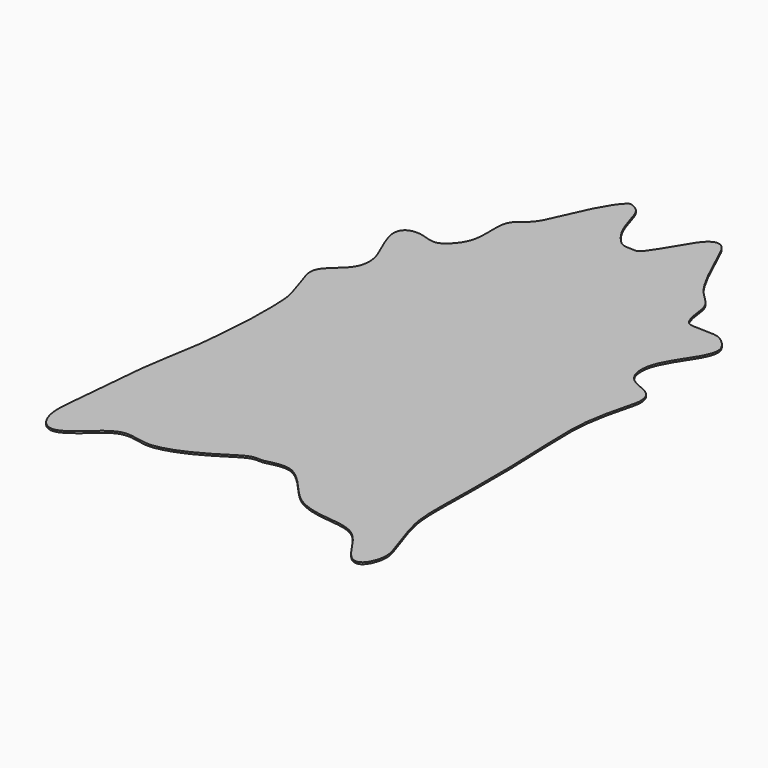
from build123d import *

# Parameters (mm, degrees)
EXTRUDE_DEPTH = 5


with BuildPart() as part:
    # Sketch → Extrude (new body)
    with BuildSketch(Plane.XY):
        with BuildLine():
            add(Edge.make_bspline(
                [(-99.584564, 812.491001), (-92.203145, 803.551883), (-82.641016, 776.006615), (-68.029983, 722.217118), (-36.718755, 679.555028), (-17.475966, 665.643994), (0, 667.035), (18.462201, 664.484), (29.1277, 668.89), (58.8273, 714.361), (95.6929, 779.745), (117.72, 801.772), (136.732, 805.945), (157.136, 793.889), (184.783, 729.619), (213.659, 666.515), (247.457, 606.524), (282.945, 577.796), (300.266, 550.757), (301.602, 515.503), (311.319, 479.593), (323.993, 465.229), (388.632, 468.608), (415.67, 461.426), (443.976, 433.543), (451.158, 408.194), (436.03, 369.009), (401.387, 320.425), (374.772, 269.728), (372.237, 230.86), (378.996, 205.511), (400.965, 182.275), (440.678, 169.601), (459.313, 152.056), (465.228, 127.552), (461.003, 99.2462), (445.344, 45.383), (435.204, -12.0736), (430.557, -50.9412), (430.574, -134.426), (437.756, -267.505), (438.085, -424.103), (434.045, -567.29), (440.034, -624.021), (460.758, -691.373), (485.262, -755.167), (489.909, -789.388), (480.192, -820.228), (468.363, -839.662), (449.351, -846.422), (424.425, -830.368), (383.868, -764.039), (352.942, -736.906), (312.807, -725.921), (253.66, -722.541), (199.074, -706.844), (164.854, -681.495), (131.478, -640.938), (91.2607, -601.927), (62.1099, -590.098), (23.2422, -595.168), (0, -603.195), (-19.8503, -598.97), (-46.8887, -608.687), (-92.2088, -640.011), (-162.762, -678.879), (-216.969, -694.619), (-247.387, -697.154), (-291.747, -685.324), (-324.277, -687.437), (-359.343, -710.25), (-390.183, -741.936), (-426.094, -766.862), (-450.175, -772.354), (-472.989, -759.258), (-487.353, -734.332), (-495.38, -696.731), (-491.155, -643.922), (-481.51, -558.029), (-476.018, -469.732), (-464.621, -376.479), (-443.919, -271.705), (-435.899, -170.468), (-429.562, -85.5508), (-431.686, 16.6027), (-435.911, 40.2613), (-457.035, 106.167), (-470.991, 146.058), (-466.766, 167.182), (-454.514, 184.503), (-416.069, 216.189), (-398.318, 246.736), (-398.74, 288.561), (-416.499, 328.822), (-443.115, 387.546), (-441.986, 419.935), (-424.711, 436.36), (-395.825, 438.343), (-372.886, 430.696), (-345.7, 423.05), (-323.894, 432.962), (-297.274, 461.281), (-284.759, 494.259), (-283.91, 535.888), (-285.316, 578.197), (-276.253998, 603.401001), (-253.882021, 619.825997), (-234.057964, 637.66697), (-215.366169, 675.8984), (-189.828404, 737.798433), (-164.876892, 786.218168), (-141.406746, 820.645111), (-127.92948, 829.631181), (-126.929532, 829.641323), (-106.965983, 821.430119), (-99.584564, 812.491001)],
                knots=[0, 0, 0, 0, 0.00885, 0.017699, 0.026549, 0.035398, 0.044248, 0.053097, 0.061947, 0.070796, 0.079646, 0.088496, 0.097345, 0.106195, 0.115044, 0.123894, 0.132743, 0.141593, 0.150442, 0.159292, 0.168142, 0.176991, 0.185841, 0.19469, 0.20354, 0.212389, 0.221239, 0.230088, 0.238938, 0.247788, 0.256637, 0.265487, 0.274336, 0.283186, 0.292035, 0.300885, 0.309735, 0.318584, 0.327434, 0.336283, 0.345133, 0.353982, 0.362832, 0.371681, 0.380531, 0.389381, 0.39823, 0.40708, 0.415929, 0.424779, 0.433628, 0.442478, 0.451327, 0.460177, 0.469027, 0.477876, 0.486726, 0.495575, 0.504425, 0.513274, 0.522124, 0.530973, 0.539823, 0.548673, 0.557522, 0.566372, 0.575221, 0.584071, 0.59292, 0.60177, 0.610619, 0.619469, 0.628319, 0.637168, 0.646018, 0.654867, 0.663717, 0.672566, 0.681416, 0.690265, 0.699115, 0.707965, 0.716814, 0.725664, 0.734513, 0.743363, 0.752212, 0.761062, 0.769912, 0.778761, 0.787611, 0.79646, 0.80531, 0.814159, 0.823009, 0.831858, 0.840708, 0.849558, 0.858407, 0.867257, 0.876106, 0.884956, 0.893805, 0.902655, 0.911504, 0.920354, 0.929204, 0.938053, 0.946903, 0.955752, 0.964602, 0.973451, 0.982301, 0.99115, 1, 1, 1, 1], degree=3))
        make_face()
    extrude(amount=EXTRUDE_DEPTH)


solid = part.part
